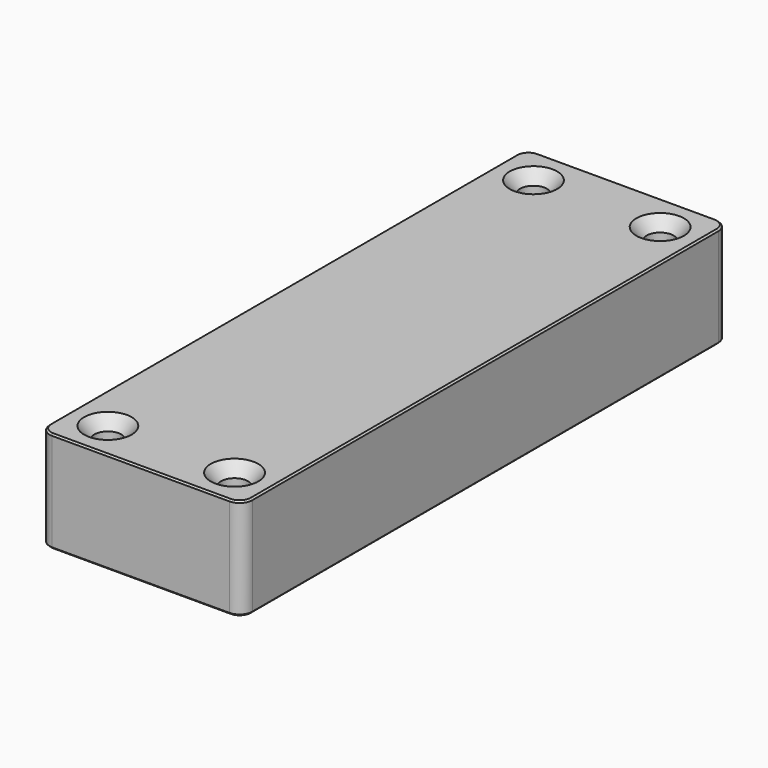
from build123d import *

# Parameters (mm, degrees)
F0_W           = 101.6
F0_H           = 50.8
F1_DEPTH       = 152.4
F3_D           = 13.49248
F3_CSINK_D     = 23.8252
F3_CSINK_ANGLE = 82
F4_R           = 6.35
F5_SIZE        = 0.8128


with BuildPart() as f1:
    # F0 (on Front) → F1 (new body, symmetric)
    with BuildSketch(Plane.XZ):
        Rectangle(F0_W, F0_H)
    extrude(amount=F1_DEPTH, both=True)

    # F3 (through all)
    with Locations(Plane.XY.offset(25.4)):
        with Locations((-31.75, 133.35), (31.75, 133.35), (31.75, -133.35), (-31.75, -133.35)):
            CounterSinkHole(F3_D / 2, F3_CSINK_D / 2, counter_sink_angle=F3_CSINK_ANGLE)

    # F4
    f4_edges = [f1.edges().sort_by_distance(p)[0] for p in [
        (50.8, -152.4, 0),
        (50.8, 152.4, 0),
        (-50.8, -152.4, 0),
        (-50.8, 152.4, 0),
    ]]
    fillet(f4_edges, radius=F4_R)

    # F5
    f5_edges = [f1.edges().sort_by_distance(p)[0] for p in [
        (0, 152.4, 25.4),
        (50.8, 0, 25.4),
        (0, -152.4, 25.4),
        (-50.8, 0, 25.4),
        (-50.8, 0, -25.4),
        (-48.940128, 150.540128, -25.4),
        (-48.940128, -150.540128, -25.4),
        (0, 152.4, -25.4),
        (0, -152.4, -25.4),
        (48.940128, 150.540128, -25.4),
        (48.940128, -150.540128, -25.4),
        (50.8, 0, -25.4),
        (-38.49624, 133.35, -25.4),
        (25.00376, 133.35, -25.4),
        (-38.49624, -133.35, -25.4),
        (25.00376, -133.35, -25.4),
    ]]
    chamfer(f5_edges, length=F5_SIZE)


solid = f1.part
